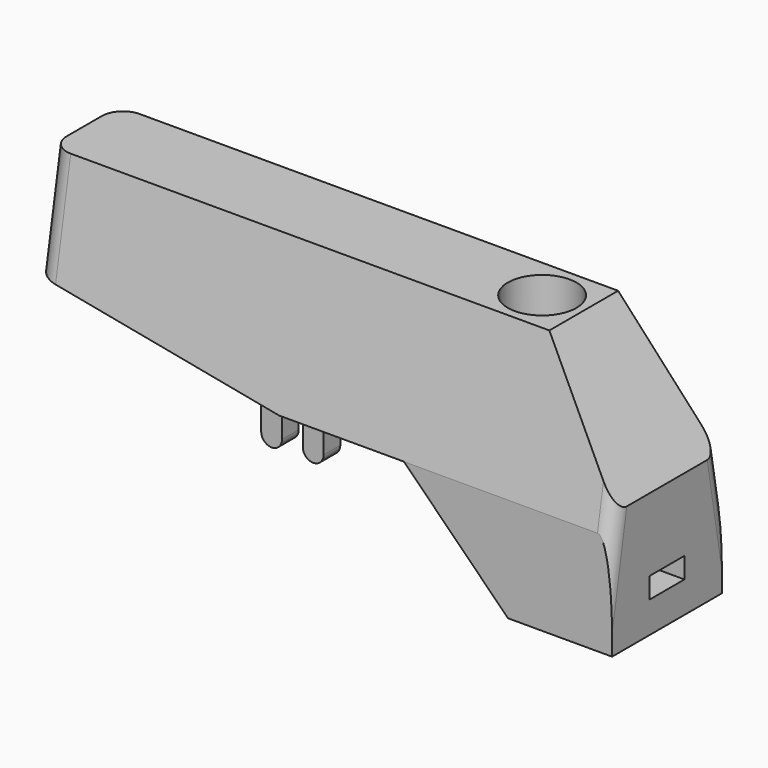
from build123d import *

# Parameters (mm, degrees)
CYLINDER_R      = 1.65
CYLINDER_DEPTH  = 30
PAD005_DEPTH    = 1.05
PAD001_DEPTH    = 3.3
POCKET004_DEPTH = 28.001
PAD002_DEPTH    = 0.5
FILLET_R        = 0.7
FILLET002_R     = 1


with BuildPart() as black_led_base:
    # Cylinder → Cylinder (join)
    with BuildSketch(Plane(origin=(-6, 0, -15), x_dir=(1, 0, 0), z_dir=(0, 0, 1))):
        Circle(CYLINDER_R)
    extrude(amount=CYLINDER_DEPTH)


with BuildPart() as obj1:
    # Sketch016 → Pad005 (new body, symmetric)
    with BuildSketch(Plane.XZ):
        Polygon((-6, 2.5), (-6, -0.5), (0, -0.5), (0, 0.5), align=None)
    extrude(amount=PAD005_DEPTH, both=True)


with BuildPart() as black_g:
    # Sketch005 → Pad001 (new body, symmetric)
    with BuildSketch(Plane.XZ):
        Polygon((0, 0), (0, -2), (-5, -2), (-10, 3), (-16, 3), (-28, 5), (-28, 10), (-4, 10), (0, 4), align=None)
    extrude(amount=PAD001_DEPTH, both=True)

    # Sketch006 → Pocket004 (cut, through all)
    with BuildSketch(Plane.YZ):
        Polygon((-3.3, 0), (-3.3, 3), (0, 21.71523), (3.3, 3), (3.3, 0), (13, 0), (13, 26), (-13, 26), (-13, 0), align=None)
    extrude(amount=-POCKET004_DEPTH, mode=Mode.SUBTRACT)

    # Sketch008 → Pad002 (join, symmetric)
    with BuildSketch(Plane.XZ.offset(2)):
        with BuildLine():
            ThreePointArc((-15.5, 1.5), (-15, 1), (-14.5, 1.5))
            Line((-14.5, 1.5), (-14.5, 3))
            ThreePointArc((-14.5, 3), (-15, 3.5), (-15.5, 3))
            Line((-15.5, 1.5), (-15.5, 3))
        make_face()
        with BuildLine():
            ThreePointArc((-16.5, 3), (-17, 3.5), (-17.5, 3))
            Line((-17.5, 3), (-17.5, 1.5))
            ThreePointArc((-17.5, 1.5), (-17, 1), (-16.5, 1.5))
            Line((-16.5, 3), (-16.5, 1.5))
        make_face()
    pad002 = extrude(amount=PAD002_DEPTH, both=True)

    # Mirrored001: Pad002 across XZ
    add(pad002.mirror(Plane.XZ))

    # Fillet
    fillet_edges = [black_g.edges().sort_by_distance(p)[0] for p in [
        (0, -3.211837, 3.5),
        (0, 3.211837, 3.5),
    ]]
    fillet(fillet_edges, radius=FILLET_R)

    # Fillet002
    fillet002_edges = [black_g.edges().sort_by_distance(p)[0] for p in [
        (-28, -2.506529, 7.5),
        (-28, 2.506529, 7.5),
    ]]
    fillet(fillet002_edges, radius=FILLET002_R)

    # Boolean001: cut black_led_BASE, obj1
    add(black_led_base.part, mode=Mode.SUBTRACT)
    add(obj1.part, mode=Mode.SUBTRACT)


with BuildPart() as black_g_1:
    # Clone011 placement: moved
    add(black_g.part.moved(Location((0, -22.95, 0))))


solid = black_g_1.part
